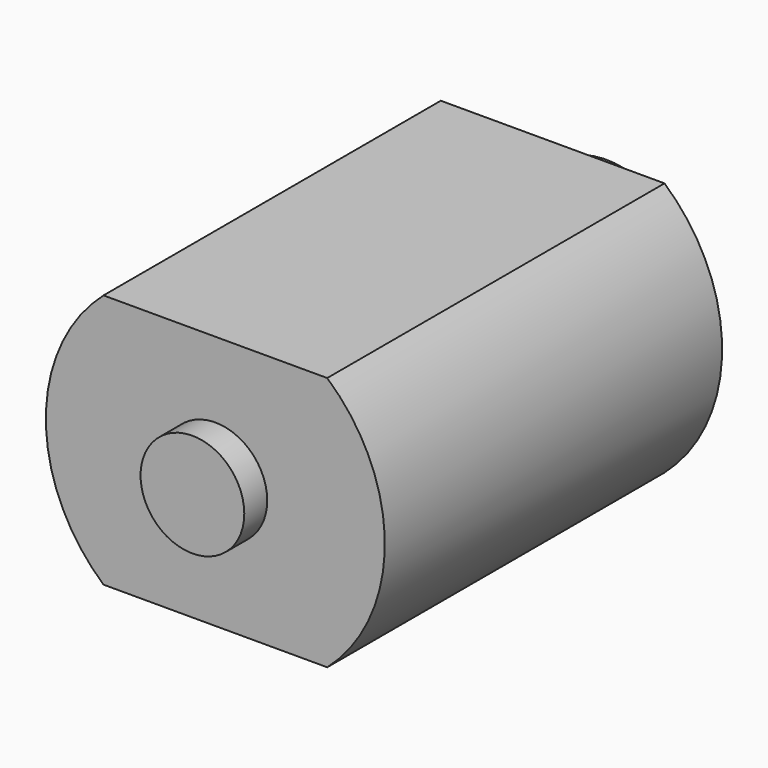
from build123d import *

# Parameters (mm, degrees)
PAD_DEPTH    = 25
SKETCH001_R  = 3.075
PAD001_DEPTH = 1.7
SKETCH011_R  = 5
PAD009_DEPTH = 4


with BuildPart() as part:
    # Sketch → Pad (new body)
    with BuildSketch(Plane.XZ):
        with BuildLine():
            Line((-6.63325, 7.55), (6.63325, 7.55))
            ThreePointArc((6.63325, -7.55), (10.05, 0), (6.63325, 7.55))
            Line((6.63325, -7.55), (-6.63325, -7.55))
            ThreePointArc((-6.63325, 7.55), (-10.05, 0), (-6.63325, -7.55))
        make_face()
    extrude(amount=PAD_DEPTH)

    # Sketch001 → Pad001 (new body)
    with BuildSketch(Plane.XZ.offset(25)):
        Circle(SKETCH001_R)
    extrude(amount=PAD001_DEPTH)

    # Sketch011 → Pad009 (new body)
    with BuildSketch(Plane(origin=(0, 0, 0), x_dir=(1, 0, 0), z_dir=(0, 1, 0))):
        Circle(SKETCH011_R)
    extrude(amount=PAD009_DEPTH)


solid = part.part
